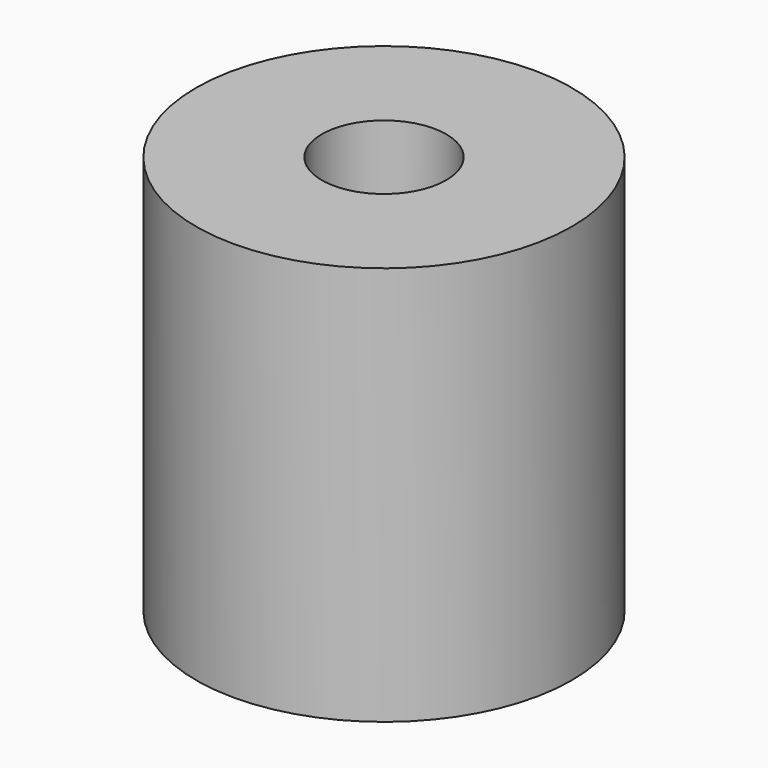
from build123d import *

# Parameters (mm, degrees)
CYLINDER708_R     = 2.65
CYLINDER708_DEPTH = 40
CYLINDER707_R     = 8
CYLINDER707_DEPTH = 17


with BuildPart() as obj1:
    # Cylinder708 → Cylinder708 (new body)
    with BuildSketch(Plane(origin=(0, 83, 232), x_dir=(1, 0, 0), z_dir=(0, 0, 1))):
        Circle(CYLINDER708_R)
    extrude(amount=CYLINDER708_DEPTH)


with BuildPart() as cut287:
    # Cylinder707 → Cylinder707 (new body)
    with BuildSketch(Plane(origin=(0, 83, 252), x_dir=(1, 0, 0), z_dir=(0, 0, 1))):
        Circle(CYLINDER707_R)
    extrude(amount=CYLINDER707_DEPTH)

    # Cut287: cut obj1
    add(obj1.part, mode=Mode.SUBTRACT)


solid = cut287.part
